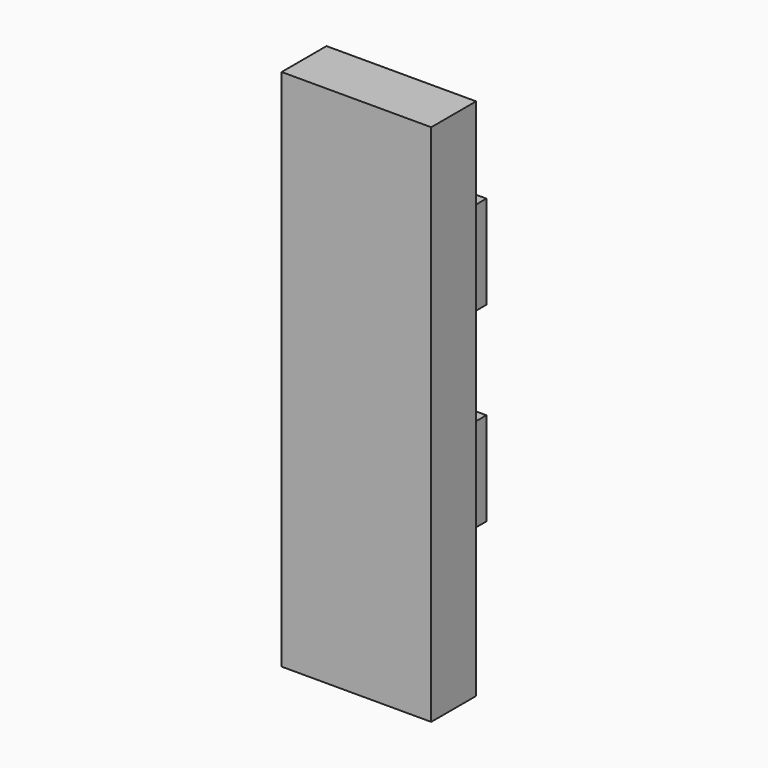
from build123d import *

# Parameters (mm, degrees)
F0_W     = 80
F0_H     = 280
F1_DEPTH = 30
F3_START = 26
F2_W     = 43
F2_H     = 30
F3_DEPTH = 50
F4_START = -26
F4_DEPTH = 50


with BuildPart() as f1:
    # F0 (on Front) → F1 (new body)
    with BuildSketch(Plane.XZ):
        Rectangle(F0_W, F0_H)
    extrude(amount=F1_DEPTH)

    # F2 (on Top) → F3 (join)
    with BuildSketch(Plane.XY.offset(F3_START)):
        with Locations((0, 15)):
            Rectangle(F2_W, F2_H)
    extrude(amount=F3_DEPTH)

    # F2 (on Top) → F4 (join)
    with BuildSketch(Plane.XY.offset(F4_START)):
        with Locations((0, 15)):
            Rectangle(F2_W, F2_H)
    extrude(amount=-F4_DEPTH)


solid = f1.part
